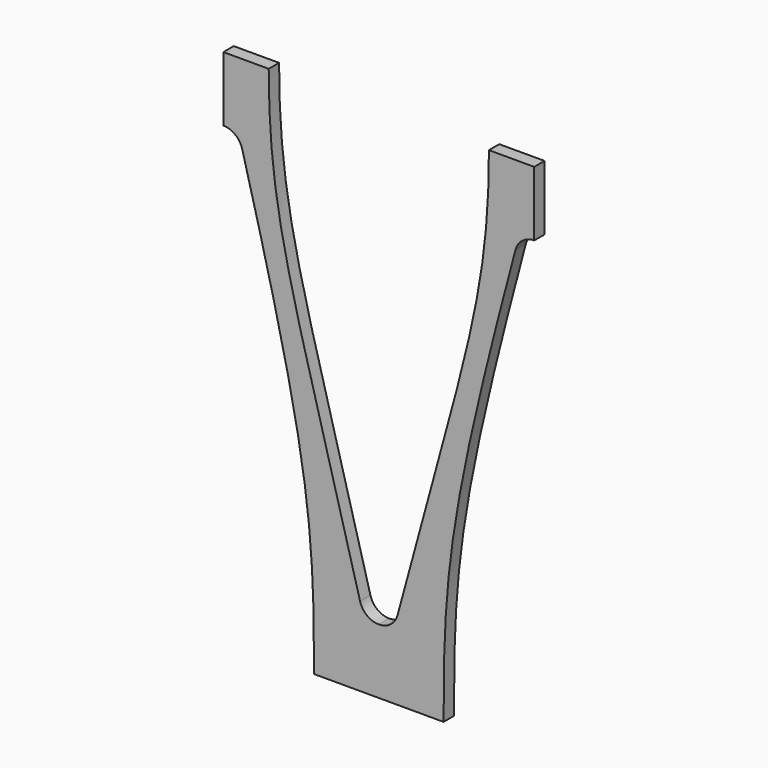
from build123d import *

# Parameters (mm, degrees)
F1_DEPTH = 2.54


with BuildPart() as f1:
    # F0 (on Front) → F1 (new body)
    with BuildSketch(Plane.XZ):
        with BuildLine():
            Line((46.99, 139.7), (38.1, 139.7))
            Line((38.1, 139.7), (38.1, 127))
            ThreePointArc((38.1, 127), (40.419381, 126.212676), (41.780177, 124.176101))
            add(Edge.make_bspline(
                [(55.88, 38.1), (55.88, 63.5), (54.928185, 75.107069), (41.780177, 124.176101)],
                knots=[0, 0, 0, 0, 87.223277, 87.223277, 87.223277, 87.223277], degree=3))
            Line((55.88, 38.1), (68.58, 38.1))
            Line((68.58, 38.1), (68.58, 50.8))
            ThreePointArc((68.58, 50.8), (66.260619, 51.587324), (64.899823, 53.623899))
            add(Edge.make_bspline(
                [(46.99, 139.7), (46.99, 114.3), (51.751815, 102.692931), (64.899823, 53.623899)],
                knots=[0, 0, 0, 0, 87.919604, 87.919604, 87.919604, 87.919604], degree=3))
        make_face()
    extrude(amount=F1_DEPTH)

    # F2: F1 across face


with BuildPart() as f1_1:
    add(f1.part)
    add(f1.part.mirror(Plane(origin=(68.58, -1.27, 44.45), x_dir=(0, 1, 0), z_dir=(1, 0, 0))))


solid = f1_1.part
